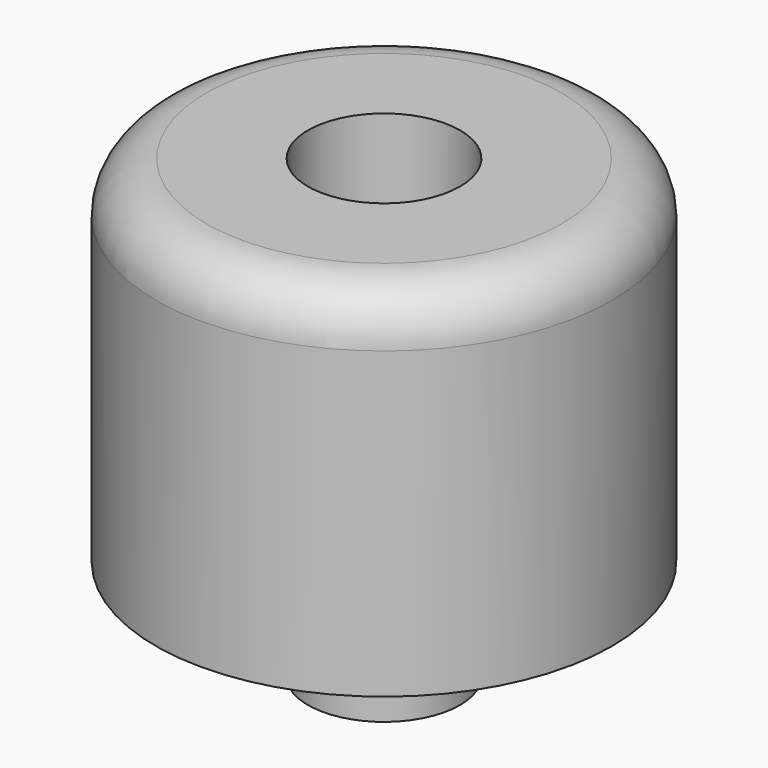
from build123d import *

# Parameters (mm, degrees)
F0_W   = 15
F0_H   = 15
F0_H_2 = 20
F0_W_2 = 4.5
F0_H_3 = 10
F2_R   = 5


with BuildPart() as f1:
    # F0 (on Front) → F1 (revolve)
    with BuildSketch(Plane.XZ):
        with Locations((15, 37.5)):
            Rectangle(F0_W, F0_H)
        with Locations((15, 20)):
            Rectangle(F0_W, F0_H_2)
        with Locations((5.25, 20)):
            Rectangle(F0_W_2, F0_H_2)
        with Locations((5.25, 5)):
            Rectangle(F0_W_2, F0_H_3)
    revolve(axis=Axis((0, 0, 22.5), (0, 0, 1)))

    # F2
    f2_edges = [f1.edges().sort_by_distance(p)[0] for p in [
        (-22.5, 0, 45),
    ]]
    fillet(f2_edges, radius=F2_R)


solid = f1.part
